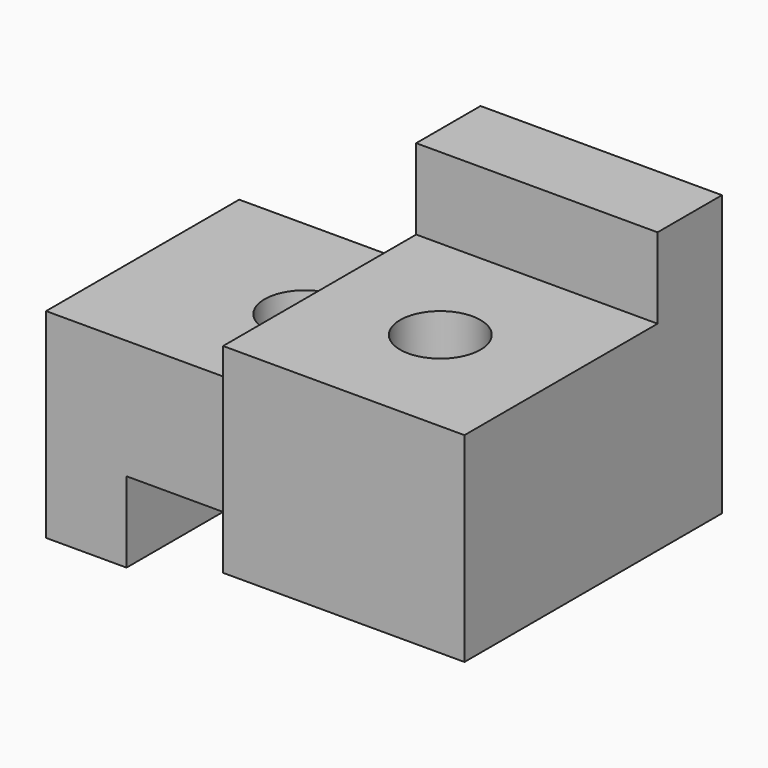
from build123d import *

# Parameters (mm, degrees)
F1_DEPTH = 19.05
F3_DEPTH = 6.35
F4_W     = 19.05
F4_H     = 6.35
F5_DEPTH = 38.101
F6_R     = 3.175
F7_DEPTH = 22.112613
F8_R     = 3.175
F9_DEPTH = 15.762613


with BuildPart() as f1:
    # F0 (on Front) → F1 (new body)
    with BuildSketch(Plane.XZ):
        Polygon((0, 15.761613), (0, 0), (6.35, 0), (6.35, 6.35), (38.1, 6.35), (38.1, 28.461613), (19.05, 28.461613), (19.05, 15.761613), align=None)
    extrude(amount=F1_DEPTH)

    # F2 (on face) → F3 (join)
    with BuildSketch(Plane.XZ.offset(19.05)):
        Polygon((38.1, 28.461613), (19.05, 28.461613), (19.05, 15.761613), (19.05, 6.35), (38.1, 6.35), align=None)
    extrude(amount=F3_DEPTH)

    # F4 (on face) → F5 (cut, through all)
    with BuildSketch(Plane.YZ.offset(38.1)):
        with Locations((-15.875, 25.286613)):
            Rectangle(F4_W, F4_H)
    extrude(amount=-F5_DEPTH, mode=Mode.SUBTRACT)

    # F6 (on face) → F7 (cut, through all)
    with BuildSketch(Plane.XY.offset(22.111613)):
        with Locations((28.575, -15.875)):
            Circle(F6_R)
    extrude(amount=-F7_DEPTH, mode=Mode.SUBTRACT)

    # F8 (on face) → F9 (cut, through all)
    with BuildSketch(Plane.XY.offset(15.761613)):
        with Locations((12.7, -9.398)):
            Circle(F8_R)
    extrude(amount=-F9_DEPTH, mode=Mode.SUBTRACT)


solid = f1.part
